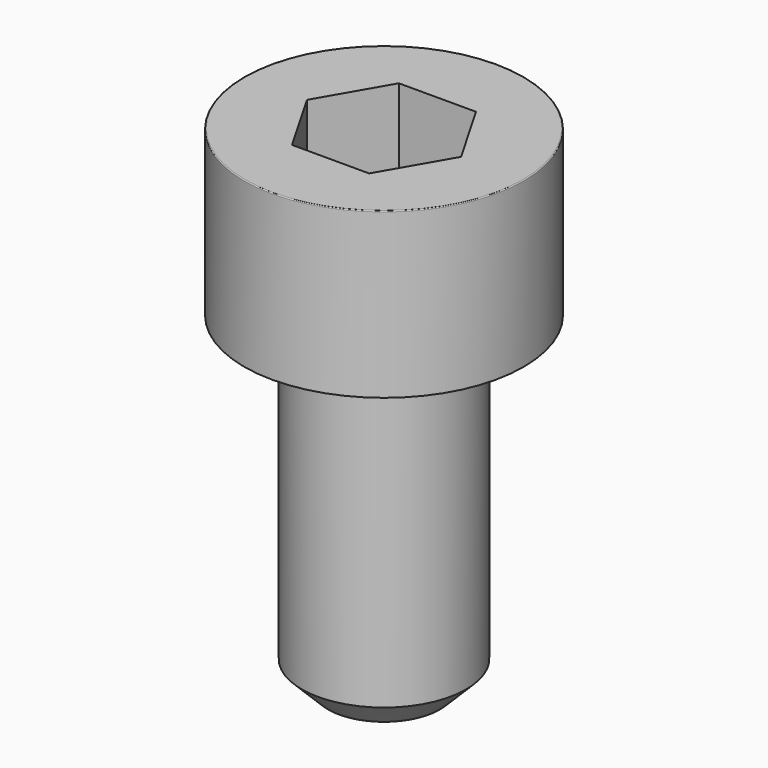
from build123d import *

# Parameters (mm, degrees)
POCKET_DEPTH = 4.06


with BuildPart() as part:
    # Sketch → Revolve (revolve)
    with BuildSketch(Plane.YZ):
        with BuildLine():
            Line((2.499, 0), (4.25, 0))
            Line((4.25, 0), (4.25, 4.97229))
            ThreePointArc((4.25, 4.97229), (4.241884, 4.991884), (4.22229, 5))
            Line((4.22229, 5), (0, 5))
            Line((0, -10), (0, 5))
            Line((1.7, -10), (0, -10))
            Line((2.5, -9.2), (1.7, -10))
            Line((2.5, -0.2), (2.5, -9.2))
            Line((2.499, 0), (2.5, -0.2))
        make_face()
    revolve(axis=Axis((0, 0, 0), (0, 0, 1)))

    # Sketch001 → Pocket (cut)
    with BuildSketch(Plane.XY.offset(5)):
        Polygon((2.344042, 0), (1.172021, 2.03), (-1.172021, 2.03), (-2.344042, 0), (-1.172021, -2.03), (1.172021, -2.03), align=None)
    extrude(amount=-POCKET_DEPTH, mode=Mode.SUBTRACT)


solid = part.part
